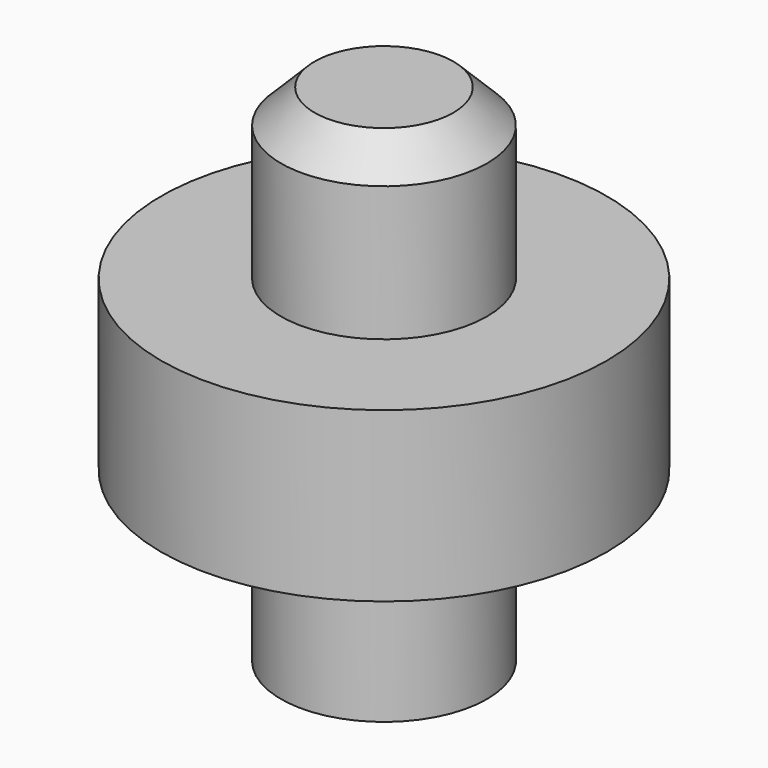
from build123d import *

# Parameters (mm, degrees)
F0_R     = 33.082468
F1_DEPTH = 25
F2_R     = 15.300047
F3_DEPTH = 25
F4_SIZE  = 5
F5_R     = 15.3009
F6_DEPTH = 25


with BuildPart() as f1:
    # F0 (on Top) → F1 (new body)
    with BuildSketch(Plane.XY):
        Circle(F0_R)
    extrude(amount=F1_DEPTH)

    # F2 (on face) → F3 (join)
    with BuildSketch(Plane.XY.offset(25)):
        Circle(F2_R)
    extrude(amount=F3_DEPTH)

    # F4
    f4_edges = [f1.edges().sort_by_distance(p)[0] for p in [
        (-15.300047, 0, 50),
    ]]
    chamfer(f4_edges, length=F4_SIZE)

    # F5 (on face) → F6 (join)
    with BuildSketch(Plane(origin=(0, 0, 0), x_dir=(1, 0, 0), z_dir=(0, 0, -1))):
        Circle(F5_R)
    extrude(amount=F6_DEPTH)


solid = f1.part
